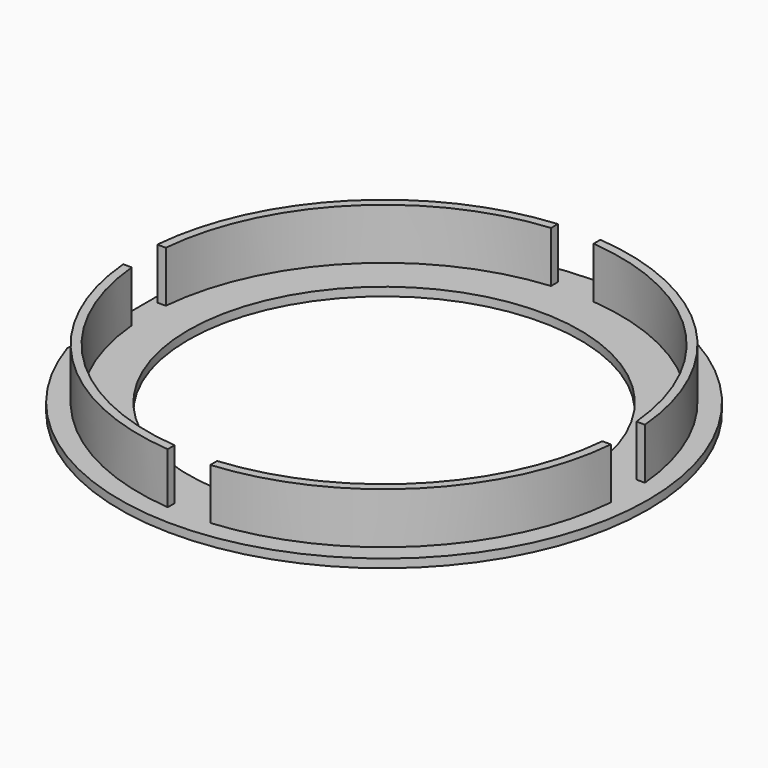
from build123d import *

# Parameters (mm, degrees)
F0_R      = 62
F1_DEPTH  = 2
F2_R      = 57.5
F3_DEPTH  = 12
F4_R      = 55.5
F5_DEPTH  = 12
F6_R      = 46
F7_DEPTH  = 25
F8_W      = 14.107362
F8_H      = 85.80368
F9_DEPTH  = 25
F10_W     = 10
F10_H     = 140
F11_DEPTH = 12
F12_W     = 189.34782
F12_H     = 10
F13_DEPTH = 12


with BuildPart() as f1:
    # F0 (on Top) → F1 (new body)
    with BuildSketch(Plane.XY):
        Circle(F0_R)
    extrude(amount=F1_DEPTH)

    # F2 (on face) → F3 (join)
    with BuildSketch(Plane.XY.offset(2)):
        Circle(F2_R)
    extrude(amount=F3_DEPTH)

    # F4 (on face) → F5 (cut)
    with BuildSketch(Plane.XY.offset(14)):
        Circle(F4_R)
    extrude(amount=-F5_DEPTH, mode=Mode.SUBTRACT)

    # F6 (on face) → F7 (cut)
    with BuildSketch(Plane.XY.offset(2)):
        Circle(F6_R)
    extrude(amount=-F7_DEPTH, mode=Mode.SUBTRACT)

    # F8 (on face) → F9 (cut)
    with BuildSketch(Plane.XY.offset(2)):
        with Locations((-65.898776, -2.319019)):
            Rectangle(F8_W, F8_H)
    extrude(amount=-F9_DEPTH, mode=Mode.SUBTRACT)

    # F10 (on face) → F11 (cut)
    with BuildSketch(Plane.XY.offset(14)):
        Rectangle(F10_W, F10_H)
    extrude(amount=-F11_DEPTH, mode=Mode.SUBTRACT)

    # F12 (on face) → F13 (cut)
    with BuildSketch(Plane.XY.offset(14)):
        Rectangle(F12_W, F12_H)
    extrude(amount=-F13_DEPTH, mode=Mode.SUBTRACT)


solid = f1.part
